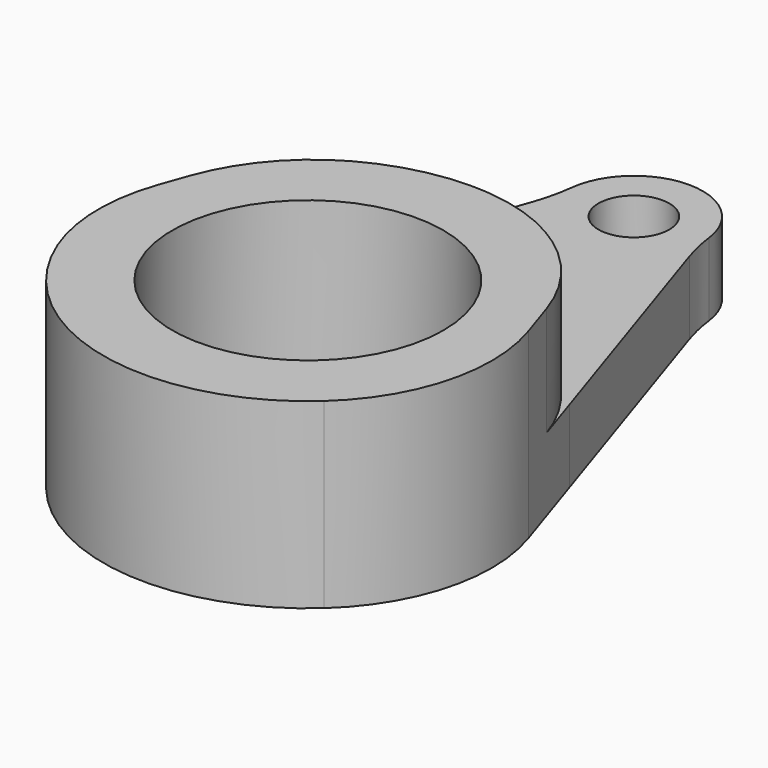
from build123d import *

# Parameters (mm, degrees)
F0_R     = 18.875359
F1_DEPTH = 25.4
F2_DEPTH = 10.16
F3_R     = 25.4


with BuildPart() as f1:
    # F0 (on Top) → F1 (new body)
    with BuildSketch(Plane.XY):
        with BuildLine():
            Line((-23.921628, 15.438856), (-28.302625, 3.09257))
            ThreePointArc((-28.302625, 3.09257), (-2.154046, -28.389482), (28.445225, -1.213161))
            Line((28.445225, -1.213161), (22.189711, 17.838703))
            ThreePointArc((22.189711, 17.838703), (12.302751, 25.675764), (0, 28.471083))
            ThreePointArc((0, 28.471083), (-13.620602, 25.001635), (-23.921628, 15.438856))
        make_face()
        Circle(F0_R, mode=Mode.SUBTRACT)
    extrude(amount=F1_DEPTH)

    # F0 (on Top) → F2 (join)
    with BuildSketch(Plane.XY):
        with BuildLine():
            Line((-23.921628, 15.438856), (-28.302625, 3.09257))
            ThreePointArc((-28.302625, 3.09257), (-2.154046, -28.389482), (28.445225, -1.213161))
            Line((28.445225, -1.213161), (22.189711, 17.838703))
            ThreePointArc((22.189711, 17.838703), (12.302751, 25.675764), (0, 28.471083))
            ThreePointArc((0, 28.471083), (-13.620602, 25.001635), (-23.921628, 15.438856))
        make_face()
        Circle(F0_R, mode=Mode.SUBTRACT)
        with BuildLine():
            Line((-9.555586, 55.924454), (-23.921628, 15.438856))
            ThreePointArc((-23.921628, 15.438856), (-13.620602, 25.001635), (0, 28.471083))
            Line((0, 28.471083), (0, 47.159142))
            ThreePointArc((0, 47.159142), (-6.483439, 49.682373), (-9.555586, 55.924454))
        make_face()
        with BuildLine():
            ThreePointArc((0, 28.471083), (12.302751, 25.675764), (22.189711, 17.838703))
            Line((22.189711, 17.838703), (9.578088, 56.248801))
            ThreePointArc((9.578088, 56.248801), (6.602304, 49.793277), (0, 47.159142))
            Line((0, 47.159142), (0, 28.471083))
        make_face()
        with BuildLine():
            ThreePointArc((4.935129, 56.750353), (-3.489663, 60.240017), (0, 51.815224))
            ThreePointArc((0, 51.815224), (3.489663, 53.26069), (4.935129, 56.750353))
        make_face()
        with BuildLine():
            ThreePointArc((9.591211, 56.750353), (-0.413334, 66.332654), (-9.555586, 55.924454))
            ThreePointArc((-9.555586, 55.924454), (-6.483439, 49.682373), (0, 47.159142))
            ThreePointArc((0, 47.159142), (6.602304, 49.793277), (9.578088, 56.248801))
            ThreePointArc((9.578088, 56.248801), (9.58793, 56.499491), (9.591211, 56.750353))
        make_face()
        with BuildLine():
            ThreePointArc((4.935129, 56.750353), (3.489663, 53.26069), (0, 51.815224))
            ThreePointArc((0, 51.815224), (-3.489663, 60.240017), (4.935129, 56.750353))
        make_face(mode=Mode.SUBTRACT)
    extrude(amount=F2_DEPTH)

    # F3
    f3_edges = [f1.edges().sort_by_distance(p)[0] for p in [
        (22.189711, 17.838703, 17.78),
        (28.445225, -1.213161, 12.7),
        (9.578088, 56.248801, 5.08),
        (-9.555586, 55.924454, 5.08),
        (-28.302625, 3.09257, 12.7),
        (-23.921628, 15.438856, 17.78),
    ]]
    fillet(f3_edges, radius=F3_R)


solid = f1.part
